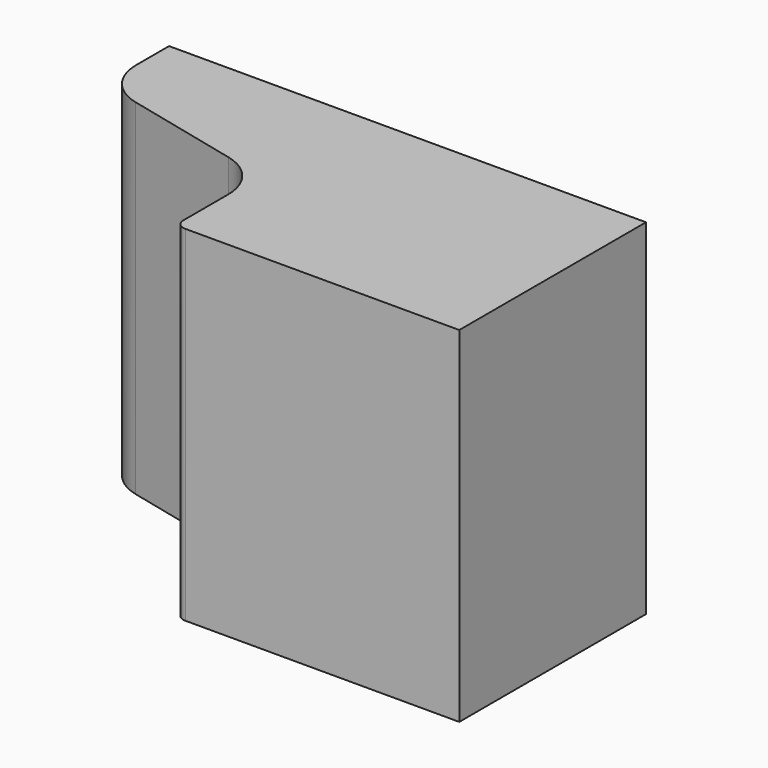
from build123d import *

# Parameters (mm, degrees)
F1_DEPTH = 863.6


with BuildPart() as f1:
    # F0 (on Top) → F1 (new body)
    with BuildSketch(Plane.XY):
        with BuildLine():
            Line((0, -584.2), (0, 0))
            Line((0, 0), (-1193.8, 0))
            Line((-1193.8, 0), (-1193.8, -102.910835))
            ThreePointArc((-1193.8, -102.910835), (-1166.470184, -181.618233), (-1096.243237, -226.45069))
            Line((-1096.243237, -226.45069), (-808.756763, -294.967302))
            ThreePointArc((-808.756763, -294.967302), (-738.529816, -339.799759), (-711.2, -418.507157))
            Line((-711.2, -418.507157), (-711.2, -558.8))
            ThreePointArc((-711.2, -558.8), (-703.760512, -576.760512), (-685.8, -584.2))
            Line((-685.8, -584.2), (0, -584.2))
        make_face()
    extrude(amount=F1_DEPTH)


solid = f1.part
